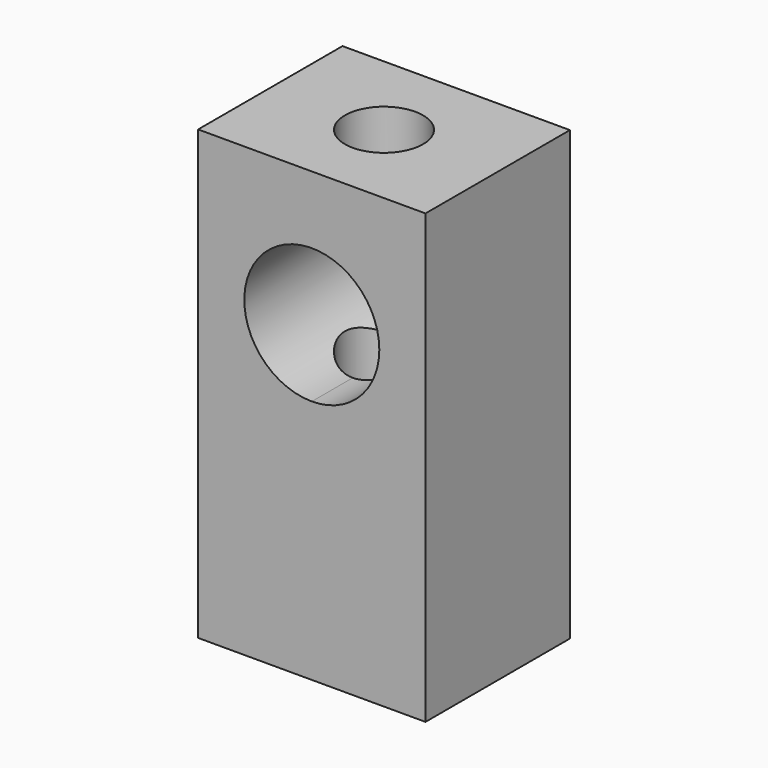
from build123d import *

# Parameters (mm, degrees)
F0_W     = 16
F0_H     = 31.5
F1_DEPTH = 6.35
F3_DEPTH = 12.701
F4_R     = 2.75
F5_DEPTH = 31.501


with BuildPart() as f1:
    # F0 (on Front) → F1 (new body, symmetric)
    with BuildSketch(Plane.XZ):
        Rectangle(F0_W, F0_H)
    extrude(amount=F1_DEPTH, both=True)

    # F2 (on face) → F3 (cut, through all)
    with BuildSketch(Plane.XZ.offset(6.35)):
        with BuildLine():
            ThreePointArc((0, 1.5), (3.358757, 2.891243), (4.75, 6.25))
            ThreePointArc((4.75, 6.25), (-3.358757, 9.608757), (0, 1.5))
        make_face()
    extrude(amount=-F3_DEPTH, mode=Mode.SUBTRACT)

    # F4 (on face) → F5 (cut, through all)
    with BuildSketch(Plane(origin=(0, 0, -15.75), x_dir=(1, 0, 0), z_dir=(0, 0, -1))):
        Circle(F4_R)
    extrude(amount=-F5_DEPTH, mode=Mode.SUBTRACT)


solid = f1.part
